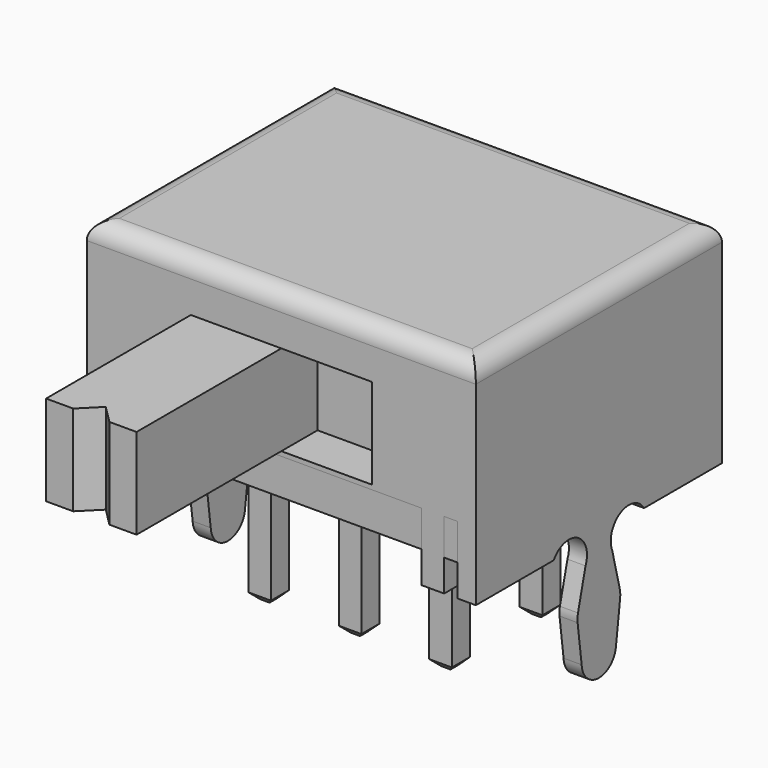
from build123d import *

# Parameters (mm, degrees)
F1_START   = 3.9
F1_DEPTH   = 0.4
F3_W       = 6.8
F3_H       = 3.2
F4_DEPTH   = 8
F5_W       = 0.5
F5_H       = 0.4
F6_DEPTH   = 1.5
F7_DEPTH   = 0.8
F8_R       = 0.4
F9_W       = 4
F9_H       = 2
F10_DEPTH  = 1
F11_W      = 2
F11_H      = 2
F12_DEPTH  = 5
F14_DEPTH  = 25
F15_W      = 0.5
F15_H      = 0.5
F16_DEPTH  = 3.5
F17_SIZE   = 0.15
F17_2_SIZE = 0.15
F17_3_SIZE = 0.15
F17_4_SIZE = 0.15
F17_5_SIZE = 0.15
F17_6_SIZE = 0.15


with BuildPart() as f1:
    # F0 (on Right) → F1 (new body)
    with BuildSketch(Plane.YZ.offset(F1_START)):
        with BuildLine():
            Line((-3.4, 4.7), (-3.4, 0))
            Line((-3.4, 0), (-1.25, 0))
            ThreePointArc((-1.25, 0), (-0.5947362498, 0.1738282345), (-0.3685141855, -0.4652417265))
            Line((-0.3685141855, -0.4652417265), (-0.5769748612, -1.297007943))
            ThreePointArc((-0.5769748612, -1.297007943), (-0.5911237195, -1.3893977424), (-0.5878301918, -1.4828066172))
            Line((-0.5878301918, -1.4828066172), (-0.4757099377, -2.3481589742))
            ThreePointArc((-0.4757099377, -2.3481589742), (0, -2.7974626246), (0.4757099377, -2.3481589742))
            Line((0.4757099377, -2.3481589742), (0.5878301918, -1.4828066172))
            ThreePointArc((0.5878301918, -1.4828066172), (0.5911237195, -1.3893977424), (0.5769748612, -1.297007943))
            Line((0.5769748612, -1.297007943), (0.3685141855, -0.4652417265))
            ThreePointArc((0.3685141855, -0.4652417265), (0.5947362498, 0.1738282345), (1.25, 0))
            Line((1.25, 0), (3.4, 0))
            Line((3.4, 0), (3.4, 4.7))
            Line((3.4, 4.7), (-3.4, 4.7))
        make_face()
    extrude(amount=F1_DEPTH)


with BuildPart() as f2_1:
    # F2: instance of F1
    add(f1.part.mirror(Plane.YZ))


with BuildPart() as f1_1:
    add(f1.part)

    add(f2_1.part)  # F4 merges F2_1
    # F3 (on face) → F4 (join)
    with BuildSketch(Plane.YZ.offset(-3.9)):
        with Locations((0, 3.1)):
            Rectangle(F3_W, F3_H)
    extrude(amount=F4_DEPTH)

    # F5 (on face) → F6 (join)
    with BuildSketch(Plane(origin=(0, 0, 1.5), x_dir=(1, 0, 0), z_dir=(0, 0, -1))):
        with Locations((3.35, 3.2)):
            Rectangle(F5_W, F5_H)
        with Locations((3.35, -3.2)):
            Rectangle(F5_W, F5_H)
        with Locations((-3.35, 3.2)):
            Rectangle(F5_W, F5_H)
        with Locations((-3.35, -3.2)):
            Rectangle(F5_W, F5_H)
    extrude(amount=F6_DEPTH)


with BuildPart() as f7:
    # F7 (new): a face of the model
    f7_faces = [f1_1.part.faces().sort_by_distance(p)[0] for p in [
        (0, 0, 1.5),
    ]]
    extrude(f7_faces, amount=F7_DEPTH)


with BuildPart() as f1_2:
    add(f1_1.part)

    # F8
    f8_edges = [f1_2.edges().sort_by_distance(p)[0] for p in [
        (0, 3.4, 4.7),
        (-4.3, 0, 4.7),
        (0, -3.4, 4.7),
        (4.3, 0, 4.7),
    ]]
    fillet(f8_edges, radius=F8_R)

    # F9 (on face) → F10 (cut)
    with BuildSketch(Plane.XZ.offset(3.4)):
        with Locations((0, 2.6)):
            Rectangle(F9_W, F9_H)
    extrude(amount=-F10_DEPTH, mode=Mode.SUBTRACT)


with BuildPart() as f12:
    # F11 (on face) → F12 (new body)
    with BuildSketch(Plane.XZ.offset(2.4)):
        with Locations((-1, 2.6)):
            Rectangle(F11_W, F11_H)
    extrude(amount=F12_DEPTH)

    # F13 (on face) → F14 (cut)
    with BuildSketch(Plane.XY.offset(3.6)):
        Polygon((-1, -7), (-1.4, -7.4), (-0.6, -7.4), align=None)
    extrude(amount=-F14_DEPTH, mode=Mode.SUBTRACT)


with BuildPart() as f16:
    # F15 (on face) → F16 (new body)
    with BuildSketch(Plane(origin=(0, 0, 0.7), x_dir=(1, 0, 0), z_dir=(0, 0, -1))):
        with Locations((-2, 1.25)):
            Rectangle(F15_W, F15_H)
    extrude(amount=F16_DEPTH)

    # F17
    f17_edges = [f16.edges().sort_by_distance(p)[0] for p in [
        (-1.75, -1.25, -2.8),
        (-2, -1.5, -2.8),
        (-2.25, -1.25, -2.8),
        (-2, -1, -2.8),
    ]]
    chamfer(f17_edges, length=F17_SIZE)


with BuildPart() as f16b:
    # F15 (on face) → F16, piece 2 (new body)
    with BuildSketch(Plane(origin=(0, 0, 0.7), x_dir=(1, 0, 0), z_dir=(0, 0, -1))):
        with Locations((0, 1.25)):
            Rectangle(F15_W, F15_H)
    extrude(amount=F16_DEPTH)

    # F17#2
    f17_2_edges = [f16b.edges().sort_by_distance(p)[0] for p in [
        (0, -1.5, -2.8),
        (-0.25, -1.25, -2.8),
        (0, -1, -2.8),
        (0.25, -1.25, -2.8),
    ]]
    chamfer(f17_2_edges, length=F17_2_SIZE)


with BuildPart() as f16c:
    # F15 (on face) → F16, piece 3 (new body)
    with BuildSketch(Plane(origin=(0, 0, 0.7), x_dir=(1, 0, 0), z_dir=(0, 0, -1))):
        with Locations((2, -1.25)):
            Rectangle(F15_W, F15_H)
    extrude(amount=F16_DEPTH)

    # F17#4
    f17_4_edges = [f16c.edges().sort_by_distance(p)[0] for p in [
        (2, 1.5, -2.8),
        (2.25, 1.25, -2.8),
        (2, 1, -2.8),
        (1.75, 1.25, -2.8),
    ]]
    chamfer(f17_4_edges, length=F17_4_SIZE)


with BuildPart() as f16d:
    # F15 (on face) → F16, piece 4 (new body)
    with BuildSketch(Plane(origin=(0, 0, 0.7), x_dir=(1, 0, 0), z_dir=(0, 0, -1))):
        with Locations((0, -1.25)):
            Rectangle(F15_W, F15_H)
    extrude(amount=F16_DEPTH)

    # F17#5
    f17_5_edges = [f16d.edges().sort_by_distance(p)[0] for p in [
        (0, 1, -2.8),
        (-0.25, 1.25, -2.8),
        (0, 1.5, -2.8),
        (0.25, 1.25, -2.8),
    ]]
    chamfer(f17_5_edges, length=F17_5_SIZE)


with BuildPart() as f16e:
    # F15 (on face) → F16, piece 5 (new body)
    with BuildSketch(Plane(origin=(0, 0, 0.7), x_dir=(1, 0, 0), z_dir=(0, 0, -1))):
        with Locations((-2, -1.25)):
            Rectangle(F15_W, F15_H)
    extrude(amount=F16_DEPTH)

    # F17#6
    f17_6_edges = [f16e.edges().sort_by_distance(p)[0] for p in [
        (-2.25, 1.25, -2.8),
        (-2, 1.5, -2.8),
        (-1.75, 1.25, -2.8),
        (-2, 1, -2.8),
    ]]
    chamfer(f17_6_edges, length=F17_6_SIZE)


with BuildPart() as f16f:
    # F15 (on face) → F16, piece 6 (new body)
    with BuildSketch(Plane(origin=(0, 0, 0.7), x_dir=(1, 0, 0), z_dir=(0, 0, -1))):
        with Locations((2, 1.25)):
            Rectangle(F15_W, F15_H)
    extrude(amount=F16_DEPTH)

    # F17#3
    f17_3_edges = [f16f.edges().sort_by_distance(p)[0] for p in [
        (2, -1.5, -2.8),
        (1.75, -1.25, -2.8),
        (2, -1, -2.8),
        (2.25, -1.25, -2.8),
    ]]
    chamfer(f17_3_edges, length=F17_3_SIZE)


solid = Compound([f7.part, f1_2.part, f12.part, f16.part, f16b.part, f16c.part, f16d.part, f16e.part, f16f.part])
